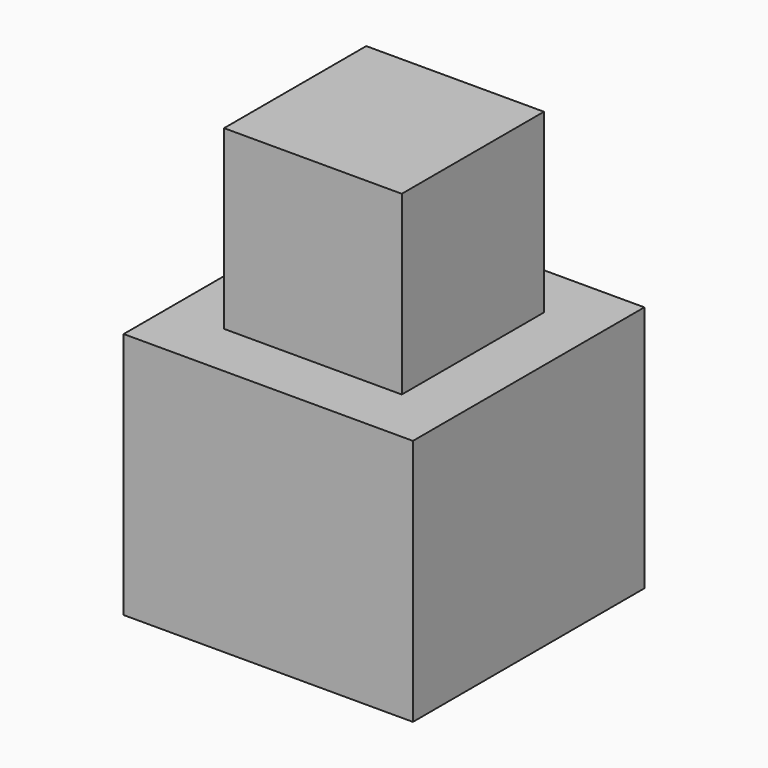
from build123d import *

# Parameters (mm, degrees)
SKETCH010_W  = 2.513972
SKETCH010_H  = 2.513972
PAD003_DEPTH = 1.5
PAD004_DEPTH = 1
SKETCH011_W  = 4.09222
SKETCH011_H  = 4.09222
PAD005_DEPTH = 3.5


with BuildPart() as part:
    # Sketch010 (on Face1 of ShapeBinder002) → Pad003 (new body)
    with BuildSketch(Plane.XY.offset(23.22)):
        with Locations((13.05, 9.55)):
            Rectangle(SKETCH010_W, SKETCH010_H)
    extrude(amount=PAD003_DEPTH)

    # Sketch010 (on Face1 of ShapeBinder002) → Pad004 (join)
    with BuildSketch(Plane.XY.offset(23.22)):
        with Locations((13.05, 9.55)):
            Rectangle(SKETCH010_W, SKETCH010_H)
    extrude(amount=-PAD004_DEPTH)

    # Sketch011 (on Face1 of Pad004) → Pad005 (join)
    with BuildSketch(Plane(origin=(0, 0, 22.22), x_dir=(1, 0, 0), z_dir=(0, 0, -1))):
        with Locations((13.05, -9.55)):
            Rectangle(SKETCH011_W, SKETCH011_H)
    extrude(amount=PAD005_DEPTH)


solid = part.part
